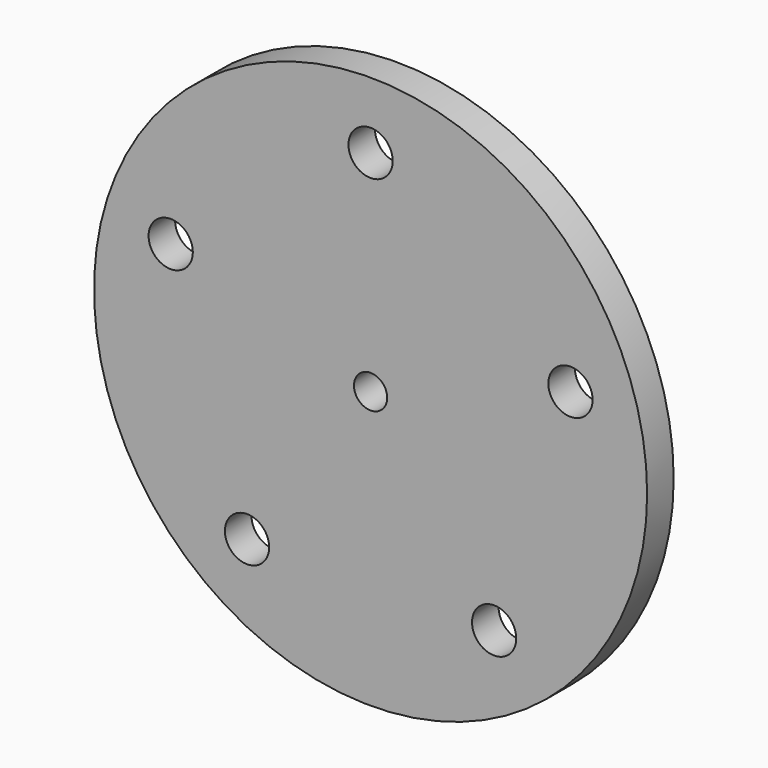
from build123d import *

# Parameters (mm, degrees)
F0_R     = 50
F1_DEPTH = 6
F2_R     = 3
F3_DEPTH = 6.001
F4_R     = 4
F5_DEPTH = 6.001


with BuildPart() as f1:
    # F0 (on Front) → F1 (new body)
    with BuildSketch(Plane.XZ):
        Circle(F0_R)
    extrude(amount=F1_DEPTH)

    # F2 (on face) → F3 (cut, through all)
    with BuildSketch(Plane.XZ.offset(6)):
        Circle(F2_R)
    extrude(amount=-F3_DEPTH, mode=Mode.SUBTRACT)

    # F4 (on face) → F5 (cut, through all)
    with BuildSketch(Plane.XZ.offset(6)):
        with Locations((0, 38)):
            Circle(F4_R)
        with Locations((-22.33584, -30.742646)):
            Circle(F4_R)
        with Locations((-36.140148, 11.742646)):
            Circle(F4_R)
        with Locations((22.33584, -30.742646)):
            Circle(F4_R)
        with Locations((36.140148, 11.742646)):
            Circle(F4_R)
    extrude(amount=-F5_DEPTH, mode=Mode.SUBTRACT)


solid = f1.part
